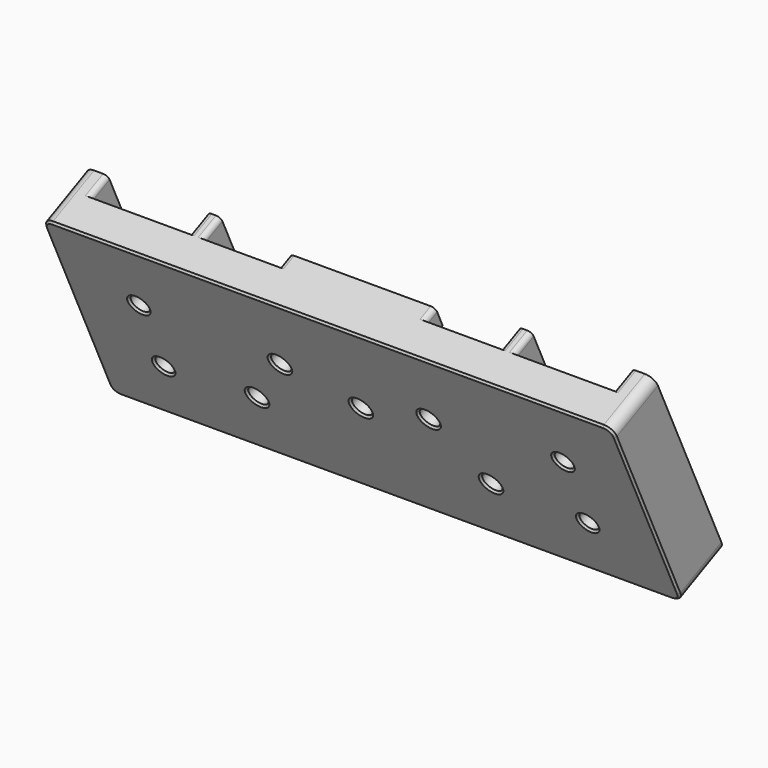
from build123d import *

# Parameters (mm, degrees)
SKETCH017_W                   = 117
SKETCH017_H                   = 42.5
PAD006_DEPTH                  = 7
SKETCH018_W                   = 4.85
SKETCH018_H                   = 42.5
SKETCH018_W_2                 = 2.85
PAD007_DEPTH                  = 5
SKETCH019_R                   = 1.9
POCKET006_DEPTH               = 7
SKETCH020_R                   = 4
SKETCH020_W                   = 30
SKETCH020_H                   = 5
SKETCH020_W_2                 = 10
PAD008_DEPTH                  = 3
SKETCH021_R                   = 2
POCKET007_DEPTH               = 10.001
SKETCH022_R                   = 2
POCKET008_DEPTH               = 7
FILLET005006_R                = 2
FILLET005007_R                = 1
CHAMFER004_SIZE               = 0.4
POCKET009_DEPTH               = 6
FILLET005008_R                = 2
BODY004004003_PLACEMENT_ANGLE = 25


with BuildPart() as part:
    # Sketch017 → Pad006 (new body)
    with BuildSketch(Plane.XZ):
        with Locations((58.5, 21.25)):
            Rectangle(SKETCH017_W, SKETCH017_H)
    extrude(amount=-PAD006_DEPTH)

    # Sketch018 (on Face6 of Pad006) → Pad007 (join)
    with BuildSketch(Plane(origin=(0, 7, 0), x_dir=(1, 0, 0), z_dir=(0, 1, 0))):
        with Locations((2.425, -21.25)):
            Rectangle(SKETCH018_W, SKETCH018_H)
        with Locations((114.575, -21.25)):
            Rectangle(SKETCH018_W, SKETCH018_H)
        with Locations((26.575, -21.25)):
            Rectangle(SKETCH018_W_2, SKETCH018_H)
        with Locations((90.425, -21.25)):
            Rectangle(SKETCH018_W_2, SKETCH018_H)
    extrude(amount=PAD007_DEPTH)

    # Sketch019 (on Face6 of Pad007) → Pocket006 (cut)
    with BuildSketch(Plane(origin=(0, 7, 0), x_dir=(1, 0, 0), z_dir=(0, 1, 0))):
        with Locations((15, -13)):
            Circle(SKETCH019_R)
        with Locations((15, -28)):
            Circle(SKETCH019_R)
        with Locations((102, -13)):
            Circle(SKETCH019_R)
        with Locations((102, -28)):
            Circle(SKETCH019_R)
    extrude(amount=-POCKET006_DEPTH, mode=Mode.SUBTRACT)

    # Sketch020 (on Face8 of Pocket006) → Pad008 (join)
    with BuildSketch(Plane(origin=(0, 7, 0), x_dir=(1, 0, 0), z_dir=(0, 1, 0))):
        with Locations((43.25, -26)):
            Circle(SKETCH020_R)
        with Locations((73.75, -26)):
            Circle(SKETCH020_R)
        with Locations((58.5, -40)):
            Rectangle(SKETCH020_W, SKETCH020_H)
        with Locations((36, -2.5)):
            Rectangle(SKETCH020_W_2, SKETCH020_H)
        with Locations((81, -2.5)):
            Rectangle(SKETCH020_W_2, SKETCH020_H)
    extrude(amount=PAD008_DEPTH)

    # Sketch021 (on Face50 of Pad008) → Pocket007 (cut, through all)
    with BuildSketch(Plane(origin=(0, 10, 0), x_dir=(1, 0, 0), z_dir=(0, 1, 0))):
        with Locations((43.25, -26)):
            Circle(SKETCH021_R)
        with Locations((73.75, -26)):
            Circle(SKETCH021_R)
    extrude(amount=-POCKET007_DEPTH, mode=Mode.SUBTRACT)

    # Sketch022 (on Face8 of Pocket007) → Pocket008 (cut)
    with BuildSketch(Plane(origin=(0, 7, 0), x_dir=(1, 0, 0), z_dir=(0, 1, 0))):
        with Locations((34.5, -14)):
            Circle(SKETCH022_R)
        with Locations((82.5, -14)):
            Circle(SKETCH022_R)
        with Locations((58.5, -22)):
            Circle(SKETCH022_R)
    extrude(amount=-POCKET008_DEPTH, mode=Mode.SUBTRACT)

    # Fillet005006
    fillet005006_edges = [part.edges().sort_by_distance(p)[0] for p in [
        (0, 3.5, 42.5),
        (0, 3.5, 0),
        (117, 3.5, 42.5),
        (117, 3.5, 0),
    ]]
    fillet(fillet005006_edges, radius=FILLET005006_R)

    # Fillet005007
    fillet005007_edges = [part.edges().sort_by_distance(p)[0] for p in [
        (43.5, 8.5, 42.5),
        (31, 8.5, 0),
        (31, 8.5, 5),
        (41, 8.5, 5),
        (76, 8.5, 0),
        (76, 8.5, 5),
        (86, 8.5, 5),
        (43.5, 8.5, 37.5),
        (73.5, 8.5, 42.5),
        (73.5, 8.5, 37.5),
        (41, 8.5, 0),
        (86, 8.5, 0),
        (4.85, 9.5, 42.5),
        (25.15, 9.5, 42.5),
        (28, 9.5, 42.5),
        (89, 9.5, 42.5),
        (91.85, 9.5, 42.5),
        (112.15, 9.5, 42.5),
        (4.85, 9.5, 0),
        (25.15, 9.5, 0),
        (28, 9.5, 0),
        (89, 9.5, 0),
        (91.85, 9.5, 0),
        (112.15, 9.5, 0),
    ]]
    fillet(fillet005007_edges, radius=FILLET005007_R)

    # Chamfer004
    chamfer004_edges = [part.edges().sort_by_distance(p)[0] for p in [
        (58.5, 0, 0),
        (0.585786, 0, 0.585786),
        (116.414214, 0, 0.585786),
        (0, 0, 21.25),
        (117, 0, 21.25),
        (0.585786, 0, 41.914214),
        (116.414214, 0, 41.914214),
        (58.5, 0, 42.5),
        (13.1, 0, 28),
        (41.25, 0, 26),
        (13.1, 0, 13),
        (32.5, 0, 14),
        (71.75, 0, 26),
        (56.5, 0, 22),
        (100.1, 0, 28),
        (80.5, 0, 14),
        (100.1, 0, 13),
        (13.1, 7, 13),
        (13.1, 7, 28),
        (100.1, 7, 13),
        (100.1, 7, 28),
        (71.75, 10, 26),
        (41.25, 10, 26),
    ]]
    chamfer(chamfer004_edges, length=CHAMFER004_SIZE)

    # Sketch023 (on Face24 of Chamfer004) → Pocket009 (cut)
    with BuildSketch(Plane(origin=(0, 7, 0), x_dir=(1, 0, 0), z_dir=(0, 1, 0))):
        Polygon((48, 0), (51, 0), (51, -9), (57, -9), (57, 0), (60, 0), (60, -12), (48, -12), align=None)
    extrude(amount=-POCKET009_DEPTH, mode=Mode.SUBTRACT)

    # Fillet005008
    fillet005008_edges = [part.edges().sort_by_distance(p)[0] for p in [
        (48, 4, 12),
        (60, 4, 12),
        (51, 4, 9),
        (57, 4, 9),
        (48, 4, 0),
        (51, 4, 0),
        (57, 4, 0),
        (60, 4, 0),
    ]]
    fillet(fillet005008_edges, radius=FILLET005008_R)


with BuildPart() as part_1:
    # Body004004003 placement: moved
    add(part.part.moved(Location((-58.5, -16.7, 20))).rotate(Axis((-58.5, -16.7, 20), (1, 0, 0)), BODY004004003_PLACEMENT_ANGLE))


solid = part_1.part
